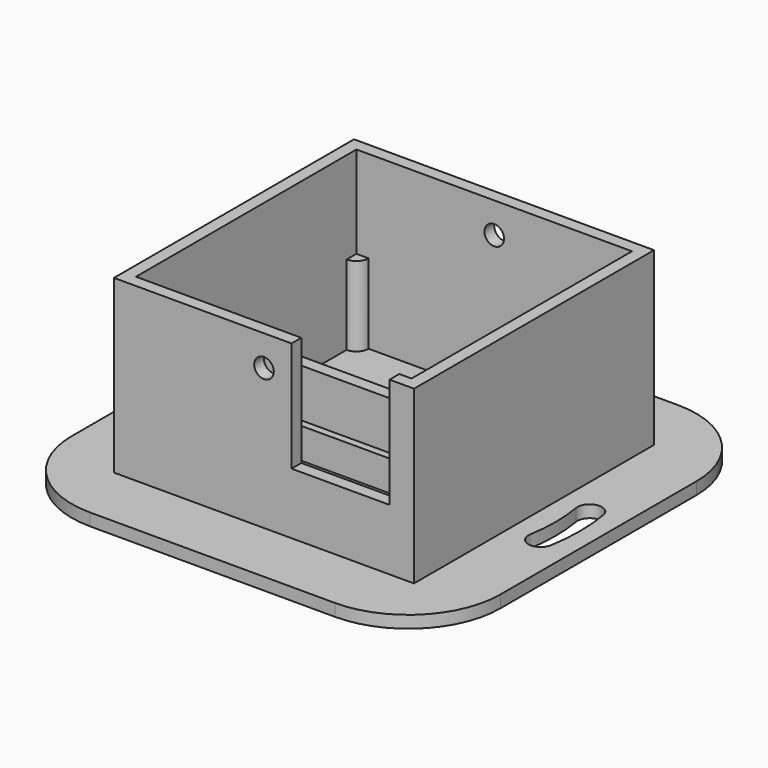
from build123d import *

# Parameters (mm, degrees)
SKETCH_W        = 70
SKETCH_H        = 70
PAD_DEPTH       = 2
SKETCH001_W     = 49
SKETCH001_H     = 49
PAD001_DEPTH    = 28
SKETCH002_W     = 45
SKETCH002_H     = 45
POCKET_DEPTH    = 28
SKETCH003_W     = 16
SKETCH003_H     = 11.09878
POCKET001_DEPTH = 18
SKETCH004_W     = 45
SKETCH004_H     = 2
PAD002_DEPTH    = 10
SKETCH005_W     = 41.4
SKETCH005_H     = 15.4
PAD003_DEPTH    = 4
SKETCH006_W     = 39
SKETCH006_H     = 13
POCKET002_DEPTH = 5
SKETCH007_W     = 23
SKETCH007_H     = 7
POCKET003_DEPTH = 1.001
POCKET004_DEPTH = 5
SKETCH009_R     = 1.6
POCKET005_DEPTH = 59.501
FILLET_R        = 15
SKETCH010_R     = 2
PAD004_DEPTH    = 13


with BuildPart() as part:
    # Sketch → Pad (new body)
    with BuildSketch(Plane.XY):
        Rectangle(SKETCH_W, SKETCH_H)
        with BuildLine():
            ThreePointArc((27.608372, -4.666667), (28, 0), (27.608372, 4.666667))
            ThreePointArc((31.552426, 5.333333), (29.247066, 6.972027), (27.608372, 4.666667))
            ThreePointArc((31.552426, -5.333333), (32, 0), (31.552426, 5.333333))
            ThreePointArc((27.608372, -4.666667), (29.247066, -6.972027), (31.552426, -5.333333))
        make_face(mode=Mode.SUBTRACT)
        with BuildLine():
            ThreePointArc((-27.608372, 4.666667), (-28, 0), (-27.608372, -4.666667))
            ThreePointArc((-31.552426, -5.333333), (-29.247066, -6.972027), (-27.608372, -4.666667))
            ThreePointArc((-31.552426, 5.333333), (-32, 0), (-31.552426, -5.333333))
            ThreePointArc((-27.608372, 4.666667), (-29.247066, 6.972027), (-31.552426, 5.333333))
        make_face(mode=Mode.SUBTRACT)
    extrude(amount=PAD_DEPTH)

    # Sketch001 (on Face14 of Pad) → Pad001 (join)
    with BuildSketch(Plane.XY.offset(2)):
        Rectangle(SKETCH001_W, SKETCH001_H)
    extrude(amount=PAD001_DEPTH)

    # Sketch002 (on Face19 of Pad001) → Pocket (cut)
    with BuildSketch(Plane.XY.offset(30)):
        Rectangle(SKETCH002_W, SKETCH002_H)
    extrude(amount=-POCKET_DEPTH, mode=Mode.SUBTRACT)

    # Sketch003 (on Face19 of Pocket) → Pocket001 (cut)
    with BuildSketch(Plane.XY.offset(30)):
        with Locations((12.5, -23.806966)):
            Rectangle(SKETCH003_W, SKETCH003_H)
    extrude(amount=-POCKET001_DEPTH, mode=Mode.SUBTRACT)

    # Sketch004 (on Face27 of Pocket001) → Pad002 (join)
    with BuildSketch(Plane.XY.offset(2)):
        with Locations((0, -0.5)):
            Rectangle(SKETCH004_W, SKETCH004_H)
    extrude(amount=PAD002_DEPTH)

    # Sketch005 (on Face27 of Pad002) → Pad003 (join)
    with BuildSketch(Plane.XY.offset(2)):
        with Locations((0, -12)):
            Rectangle(SKETCH005_W, SKETCH005_H)
    extrude(amount=PAD003_DEPTH)

    # Sketch006 (on Face36 of Pad003) → Pocket002 (cut)
    with BuildSketch(Plane.XY.offset(6)):
        with Locations((0, -12)):
            Rectangle(SKETCH006_W, SKETCH006_H)
    extrude(amount=-POCKET002_DEPTH, mode=Mode.SUBTRACT)

    # Sketch007 (on Face41 of Pocket002) → Pocket003 (cut, through all)
    with BuildSketch(Plane.XY.offset(1)):
        with Locations((0, -11)):
            Rectangle(SKETCH007_W, SKETCH007_H)
    extrude(amount=-POCKET003_DEPTH, mode=Mode.SUBTRACT)

    # Sketch008 (on Face37 of Pocket003) → Pocket004 (cut)
    with BuildSketch(Plane.XY.offset(2)):
        with BuildLine():
            Line((-11, 15.5), (-11, 2.5))
            ThreePointArc((-11, 2.5), (-10, 1.5), (-9, 2.5))
            Line((-9, 15.5), (-9, 2.5))
            ThreePointArc((-9, 15.5), (-10, 16.5), (-11, 15.5))
        make_face()
        with BuildLine():
            Line((-7, 15.5), (-7, 2.5))
            ThreePointArc((-7, 2.5), (-6, 1.5), (-5, 2.5))
            Line((-5, 15.5), (-5, 2.5))
            ThreePointArc((-5, 15.5), (-6, 16.5), (-7, 15.5))
        make_face()
        with BuildLine():
            Line((-3, 15.5), (-3, 2.5))
            ThreePointArc((-3, 2.5), (-2, 1.5), (-1, 2.5))
            Line((-1, 15.5), (-1, 2.5))
            ThreePointArc((-1, 15.5), (-2, 16.5), (-3, 15.5))
        make_face()
        with BuildLine():
            Line((1, 15.5), (1, 2.5))
            ThreePointArc((1, 2.5), (2, 1.5), (3, 2.5))
            Line((3, 15.5), (3, 2.5))
            ThreePointArc((3, 15.5), (2, 16.5), (1, 15.5))
        make_face()
        with BuildLine():
            Line((5, 15.5), (5, 2.5))
            ThreePointArc((5, 2.5), (6, 1.5), (7, 2.5))
            Line((7, 15.5), (7, 2.5))
            ThreePointArc((7, 15.5), (6, 16.5), (5, 15.5))
        make_face()
        with BuildLine():
            Line((9, 15.5), (9, 2.5))
            ThreePointArc((9, 2.5), (10, 1.5), (11, 2.5))
            Line((11, 15.5), (11, 2.5))
            ThreePointArc((11, 15.5), (10, 16.5), (9, 15.5))
        make_face()
    extrude(amount=-POCKET004_DEPTH, mode=Mode.SUBTRACT)

    # Sketch009 (on Face45 of Pocket004) → Pocket005 (cut, through all)
    with BuildSketch(Plane.XZ.offset(24.5)):
        with Locations((0, 25)):
            Circle(SKETCH009_R)
    extrude(amount=-POCKET005_DEPTH, mode=Mode.SUBTRACT)

    # Fillet
    fillet_edges = [part.edges().sort_by_distance(p)[0] for p in [
        (-35, 35, 1),
        (35, 35, 1),
        (35, -35, 1),
        (-35, -35, 1),
    ]]
    fillet(fillet_edges, radius=FILLET_R)

    # Sketch010 (on Face52 of Fillet) → Pad004 (join)
    with BuildSketch(Plane.XY.offset(2)):
        with Locations((22.5, 22.5)):
            Circle(SKETCH010_R)
        with Locations((-22.5, 22.5)):
            Circle(SKETCH010_R)
        with Locations((22.5, 0.6)):
            Circle(SKETCH010_R)
        with Locations((0, -22.5)):
            Circle(SKETCH010_R)
        with Locations((-22.5, -22.5)):
            Circle(SKETCH010_R)
    extrude(amount=PAD004_DEPTH)


solid = part.part
